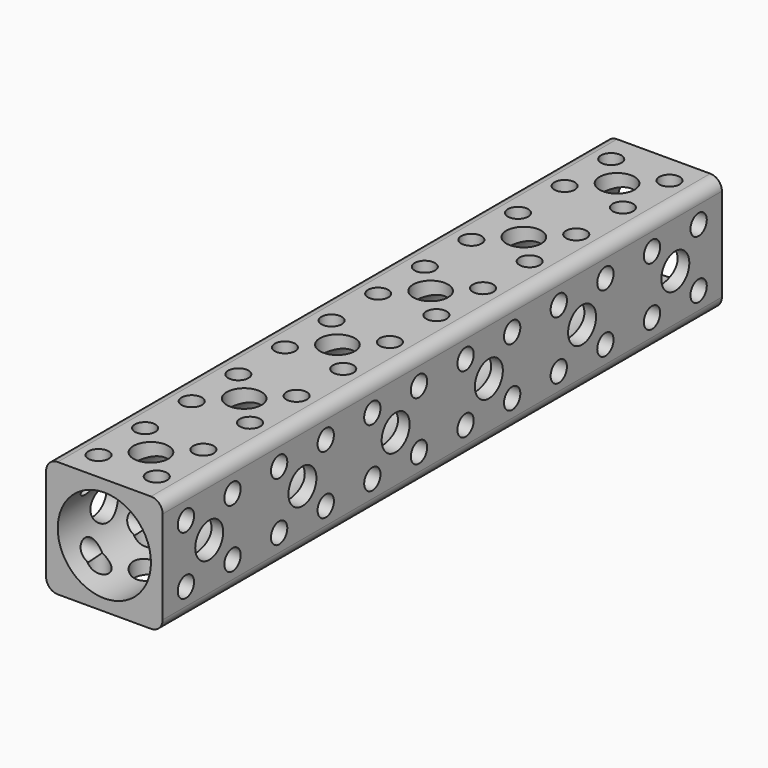
from build123d import *

# Parameters (mm, degrees)
F0_W     = 20
F0_H     = 20
F0_R     = 8
F1_DEPTH = 60
F3_D     = 3.5
F5_D     = 3.5
F7_D     = 6
F9_D     = 6
F10_R    = 2


with BuildPart() as f1:
    # F0 (on Front) → F1 (new body, symmetric)
    with BuildSketch(Plane.XZ):
        Rectangle(F0_W, F0_H)
        Circle(F0_R, mode=Mode.SUBTRACT)
    extrude(amount=F1_DEPTH, both=True)

    # F3 (through all)
    with Locations(Plane.YZ.offset(10)):
        with Locations((-55, 5), (-55, -5), (-45, -5), (-45, 5), (-35, 5), (-35, -5), (-25, -5), (-25, 5), (-15, -5), (-15, 5), (-5, -5), (-5, 5), (5, -5), (5, 5), (15, -5), (15, 5), (25, -5), (25, 5), (35, 5), (35, -5), (45, -5), (45, 5), (55, -5), (55, 5)):
            Hole(F3_D / 2)

    # F5 (through all)
    with Locations(Plane.XY.offset(10)):
        with Locations((-5, 55), (5, 55), (5, 45), (-5, 45), (-5, 35), (5, 35), (5, 25), (-5, 25), (-5, 15), (5, 15), (5, 5), (-5, 5), (-5, -5), (5, -5), (5, -15), (-5, -15), (-5, -25), (5, -25), (5, -35), (-5, -35), (-5, -45), (5, -45), (5, -55), (-5, -55)):
            Hole(F5_D / 2)

    # F7 (through all)
    with Locations(Plane.YZ.offset(10)):
        with Locations((-50, 0), (-30, 0), (10, 0), (30, 0), (50, 0), (-10, 0)):
            Hole(F7_D / 2)

    # F9 (through all)
    with Locations(Plane.XY.offset(10)):
        with Locations((0, -50), (0, -30), (0, -10), (0, 10), (0, 30), (0, 50)):
            Hole(F9_D / 2)

    # F10
    f10_edges = [f1.edges().sort_by_distance(p)[0] for p in [
        (-10, 0, 10),
        (10, 0, 10),
        (10, 0, -10),
        (-10, 0, -10),
    ]]
    fillet(f10_edges, radius=F10_R)


solid = f1.part
